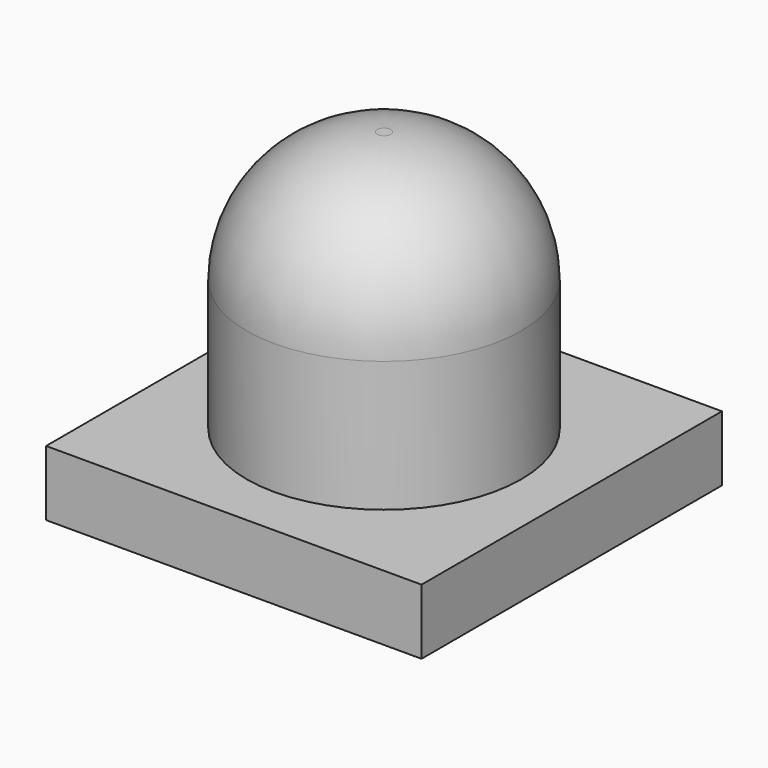
from build123d import *

# Parameters (mm, degrees)
F0_W     = 23
F0_H     = 23
F1_DEPTH = 4
F2_R     = 8.408234
F3_DEPTH = 16
F4_R     = 8


with BuildPart() as f1:
    # F0 (on Top) → F1 (new body)
    with BuildSketch(Plane.XY):
        Rectangle(F0_W, F0_H)
    extrude(amount=F1_DEPTH)

    # F2 (on face) → F3 (join)
    with BuildSketch(Plane.XY.offset(4)):
        Circle(F2_R)
    extrude(amount=F3_DEPTH)

    # F4
    f4_edges = [f1.edges().sort_by_distance(p)[0] for p in [
        (-8.408234, 0, 20),
    ]]
    fillet(f4_edges, radius=F4_R)


solid = f1.part
